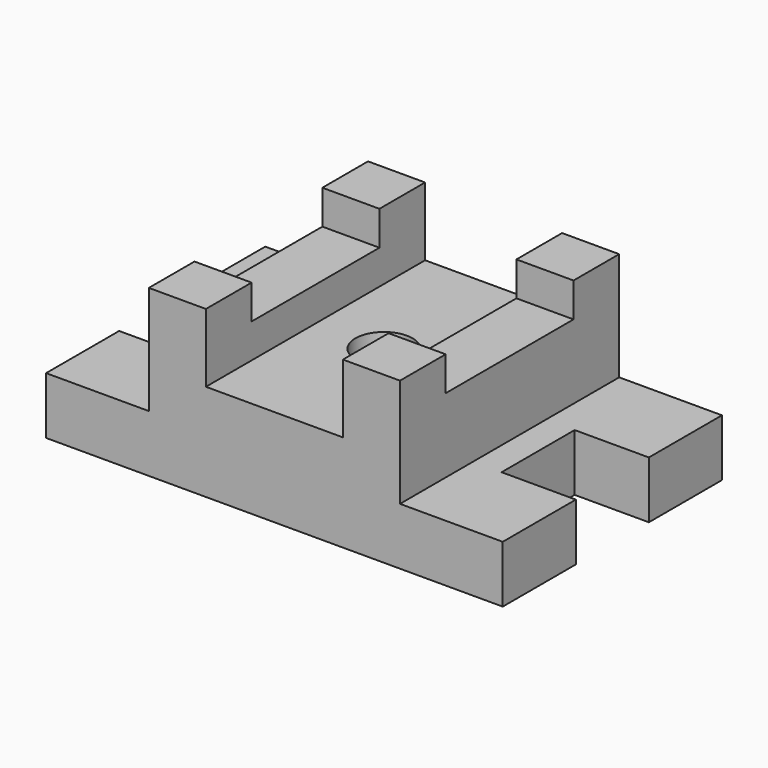
from build123d import *

# Parameters (mm, degrees)
F0_W     = 31.75
F0_H     = 31.75
F0_H_2   = 88.9
F0_R     = 15.875
F1_DEPTH = 92.075
F2_W     = 57.15
F2_H     = 60.325
F2_W_2   = 76.2
F2_H_2   = 38.1
F3_DEPTH = 152.401
F4_W     = 88.9
F4_H     = 19.05
F5_DEPTH = 196.851


with BuildPart() as f1:
    # F0 (on Top) → F1 (new body)
    with BuildSketch(Plane.XY):
        Polygon((-201.335162, -11.312044), (-144.185162, -11.312044), (-144.185162, 20.437956), (-144.185162, 109.337956), (-144.185162, 141.087956), (-201.335162, 141.087956), (-201.335162, 90.287956), (-160.060162, 90.287956), (-160.060162, 39.487956), (-201.335162, 39.487956), align=None)
        with Locations((-128.310162, 125.212956)):
            Rectangle(F0_W, F0_H)
        with Locations((-128.310162, 64.887956)):
            Rectangle(F0_W, F0_H_2)
        with Locations((-128.310162, 4.562956)):
            Rectangle(F0_W, F0_H)
        Polygon((-112.435162, -11.312044), (-74.335162, -11.312044), (-36.235162, -11.312044), (-36.235162, 20.437956), (-36.235162, 109.337956), (-36.235162, 141.087956), (-74.335162, 141.087956), (-112.435162, 141.087956), (-112.435162, 109.337956), (-112.435162, 20.437956), align=None)
        with Locations((-74.335162, 64.887956)):
            Circle(F0_R, mode=Mode.SUBTRACT)
        Polygon((-112.435162, -11.312044), (-74.335162, -11.312044), (-36.235162, -11.312044), (-36.235162, 20.437956), (-36.235162, 109.337956), (-36.235162, 141.087956), (-74.335162, 141.087956), (-112.435162, 141.087956), (-112.435162, 109.337956), (-112.435162, 20.437956), align=None)
        with Locations((-74.335162, 64.887956)):
            Circle(F0_R, mode=Mode.SUBTRACT)
        with Locations((-20.360162, 64.887956)):
            Rectangle(F0_W, F0_H_2)
        Polygon((-4.485162, 20.437956), (-4.485162, -11.312044), (52.664838, -11.312044), (52.664838, 39.487956), (11.389838, 39.487956), (11.389838, 90.287956), (52.664838, 90.287956), (52.664838, 141.087956), (-4.485162, 141.087956), (-4.485162, 109.337956), align=None)
        with Locations((-20.360162, 4.562956)):
            Rectangle(F0_W, F0_H)
        with Locations((-20.360162, 125.212956)):
            Rectangle(F0_W, F0_H)
    extrude(amount=F1_DEPTH)

    # F2 (on face) → F3 (cut, through all)
    with BuildSketch(Plane.XZ.offset(11.312044)):
        with Locations((-172.760162, 61.9125)):
            Rectangle(F2_W, F2_H)
        with Locations((-74.335162, 73.025)):
            Rectangle(F2_W_2, F2_H_2)
        with Locations((24.089838, 61.9125)):
            Rectangle(F2_W, F2_H)
    extrude(amount=-F3_DEPTH, mode=Mode.SUBTRACT)

    # F4 (on face) → F5 (cut, through all)
    with BuildSketch(Plane.YZ.offset(-4.485162)):
        with Locations((64.887956, 82.55)):
            Rectangle(F4_W, F4_H)
    extrude(amount=-F5_DEPTH, mode=Mode.SUBTRACT)


solid = f1.part
